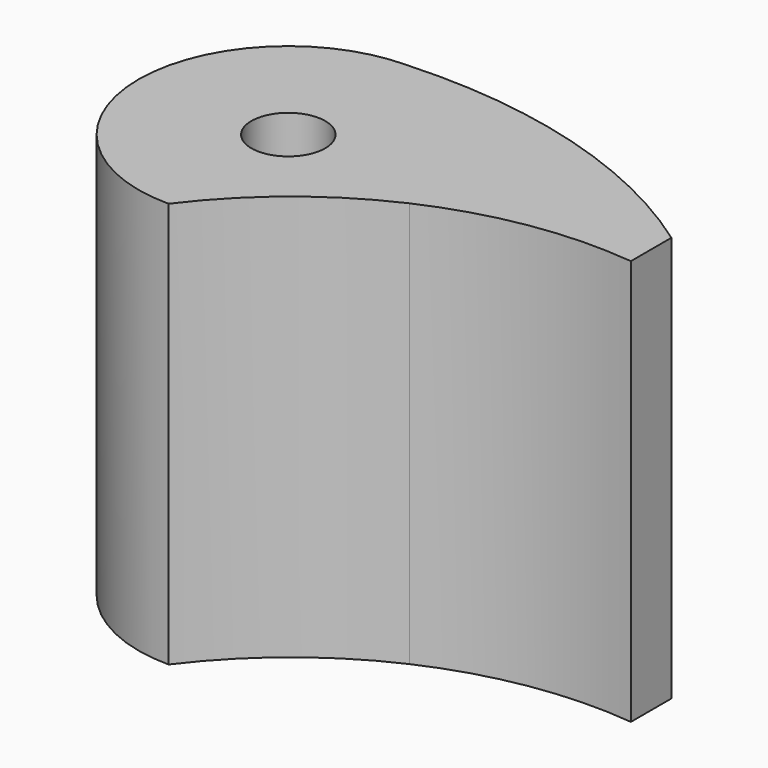
from build123d import *

# Parameters (mm, degrees)
F0_R     = 1.85
F1_DEPTH = 20.32


with BuildPart() as f1:
    # F0 (on Top) → F1 (new body)
    with BuildSketch(Plane.XY):
        Circle(F0_R)
        with BuildLine():
            ThreePointArc((0, -7.5), (3.290641, -4.079445), (7.330122, -1.587236))
            ThreePointArc((7.330122, -1.587236), (7.457409, -0.79815), (7.5, 0))
            ThreePointArc((7.5, 0), (5.303301, 5.303301), (0, 7.5))
            ThreePointArc((0, 7.5), (-7.5, 0), (0, -7.5))
        make_face()
        Circle(F0_R, mode=Mode.SUBTRACT)
        with BuildLine():
            ThreePointArc((7.5, 0), (7.457409, -0.79815), (7.330122, -1.587236))
            ThreePointArc((7.330122, -1.587236), (12.138587, -0.134216), (17.16, 0))
            Line((17.16, 0), (17.16, 2.54))
            ThreePointArc((17.16, 2.54), (9.001373, 6.477815), (0, 7.5))
            ThreePointArc((0, 7.5), (5.303301, 5.303301), (7.5, 0))
        make_face()
    extrude(amount=F1_DEPTH)


solid = f1.part
